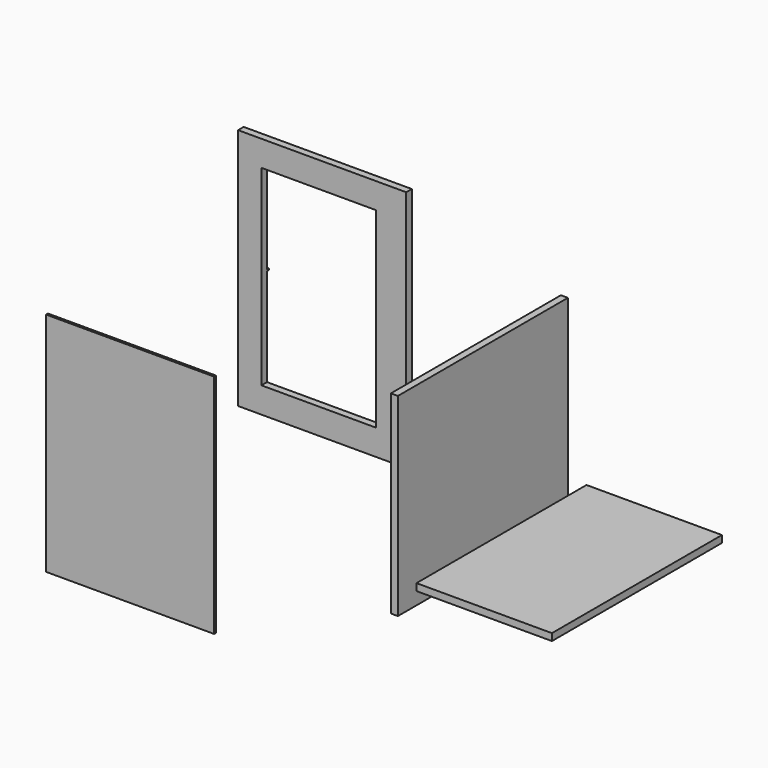
from build123d import *

# Parameters (mm, degrees)
F1_W      = 368.3
F1_H      = 19.05
F2_DEPTH  = 577.85
F0_W      = 19.05
F0_H      = 527.05
F3_DEPTH  = 577.85
F4_W      = 457.2
F4_H      = 615.95
F5_DEPTH  = 6.35
F6_W      = 457.2
F6_H      = 660.4
F7_DEPTH  = 19.05
F8_W      = 311.15
F8_H      = 520.7
F9_DEPTH  = 25.4
F10_W     = 19.05
F10_H     = 3.687387
F11_DEPTH = 6.35
F12_W     = 4.419087
F12_H     = 3.175
F13_DEPTH = 6.35


with BuildPart() as f2:
    # F1 (on Front) → F2 (new body)
    with BuildSketch(Plane.XZ):
        with Locations((184.15, -215.12813)):
            Rectangle(F1_W, F1_H)
    extrude(amount=F2_DEPTH)


with BuildPart() as f3:
    # F0 (on Front) → F3 (new body)
    with BuildSketch(Plane.XZ):
        with Locations((-60.068252, -37.515132)):
            Rectangle(F0_W, F0_H)
    extrude(amount=F3_DEPTH)


with BuildPart() as f5:
    # F4 (on Front) → F5 (new body)
    with BuildSketch(Plane.XZ):
        with Locations((-1235.74873, -579.276904)):
            Rectangle(F4_W, F4_H)
    extrude(amount=F5_DEPTH)


with BuildPart() as f7:
    # F6 (on Front) → F7 (new body)
    with BuildSketch(Plane.XZ):
        with Locations((-703.477976, 18.269226)):
            Rectangle(F6_W, F6_H)
    extrude(amount=F7_DEPTH)

    # F8 (on face) → F9 (cut)
    with BuildSketch(Plane.XZ.offset(19.05)):
        with Locations((-713.002976, 18.527851)):
            Rectangle(F8_W, F8_H)
    extrude(amount=-F9_DEPTH, mode=Mode.SUBTRACT)

    # F10 (on face) → F11 (join)
    with BuildSketch(Plane(origin=(0, 0, 0), x_dir=(-1, 0, 0), z_dir=(0, 1, 0))):
        with Locations((878.102976, 25.884144)):
            Rectangle(F10_W, F10_H)
    extrude(amount=F11_DEPTH)

    # F12 (on face) → F13 (join)
    with BuildSketch(Plane(origin=(0, 0, 0), x_dir=(-1, 0, 0), z_dir=(0, 1, 0))):
        with Locations((724.524319, 280.465351)):
            Rectangle(F12_W, F12_H)
    extrude(amount=F13_DEPTH)


with BuildPart() as f14_1:
    # F14: copy of F2
    add(f2.part)


with BuildPart() as f15_1:
    # F15: copy of F2
    add(f2.part)


solid = Compound([f2.part, f3.part, f5.part, f7.part, f14_1.part, f15_1.part])
